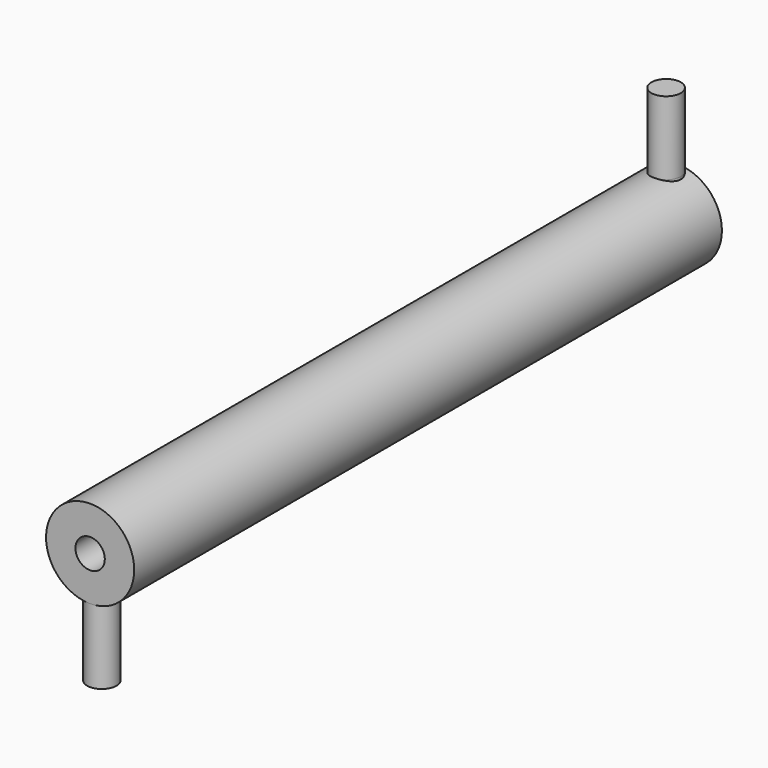
from build123d import *

# Parameters (mm, degrees)
F0_R          = 60
F0_R_2        = 20
F1_DEPTH      = 1000
F3_R          = 20
F4_DEPTH      = 100
F4_DEPTH_BACK = 7
F6_R          = 20
F7_DEPTH      = 100
F7_DEPTH_BACK = 7


with BuildPart() as f1:
    # F0 (on Front) → F1 (new body)
    with BuildSketch(Plane.XZ):
        Circle(F0_R)
        Circle(F0_R_2, mode=Mode.SUBTRACT)
    extrude(amount=F1_DEPTH)

    # F3 (on offset) → F4 (join, two sides)
    with BuildSketch(Plane.XY.offset(60)) as f4_sk:
        with Locations((0, -20)):
            Circle(F3_R)
    extrude(amount=F4_DEPTH)
    extrude(f4_sk.sketch, amount=-F4_DEPTH_BACK)

    # F6 (on offset) → F7 (join, two sides)
    with BuildSketch(Plane.XY.offset(-60)) as f7_sk:
        with Locations((0, -980)):
            Circle(F6_R)
    extrude(amount=-F7_DEPTH)
    extrude(f7_sk.sketch, amount=F7_DEPTH_BACK)


solid = f1.part
